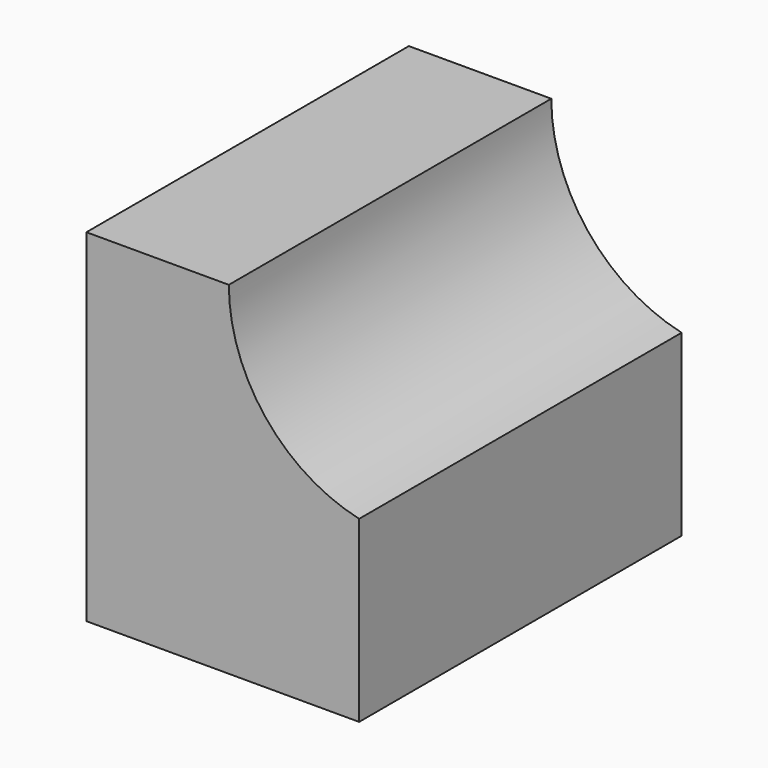
from build123d import *

# Parameters (mm, degrees)
F1_DEPTH = 50.8


with BuildPart() as f1:
    # F0 (on Front) → F1 (new body)
    with BuildSketch(Plane.XZ):
        with BuildLine():
            ThreePointArc((-24.442196, 22.532649), (-36.257248, 29.974347), (-40.864296, 43.155752))
            Line((-40.864296, 43.155752), (-40.864296, 22.532649))
            Line((-40.864296, 22.532649), (-24.442196, 22.532649))
        make_face()
        Polygon((-40.864296, 43.155752), (-58.814034, 43.155752), (-58.814034, 0), (-24.442196, 0), (-24.442196, 22.532649), (-40.864296, 22.532649), align=None)
    extrude(amount=F1_DEPTH)


solid = f1.part
